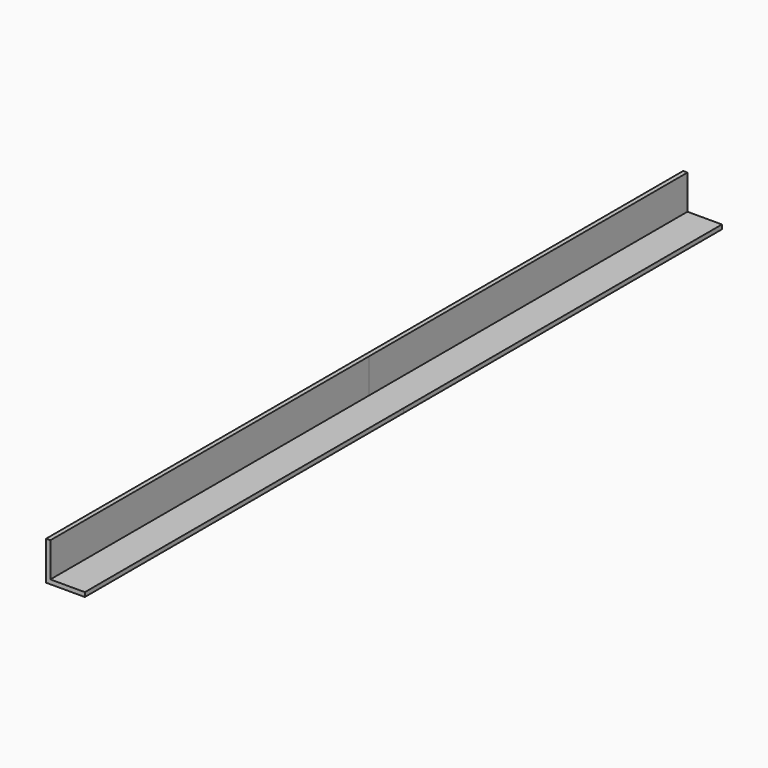
from build123d import *

# Parameters (mm, degrees)
F1_DEPTH = 586.74
F2_DEPTH = 586.74


with BuildPart() as f1:
    # F0 (on Front) → F1 (new body)
    with BuildSketch(Plane.XZ):
        Polygon((-15.55056, -26.781248), (-15.55056, 24.018752), (-21.90056, 24.018752), (-21.90056, -33.131248), (35.24944, -33.131248), (35.24944, -26.781248), align=None)
    extrude(amount=F1_DEPTH)

    # F1_face (on face) → F2 (join)
    with BuildSketch(Plane(origin=(-5.278502, 0, -16.509189), x_dir=(1, 0, 0), z_dir=(0, 1, 0))):
        Polygon((-10.272059, -40.527941), (-10.272059, 10.272059), (40.527941, 10.272059), (40.527941, 16.622059), (-16.622059, 16.622059), (-16.622059, -40.527941), align=None)
    extrude(amount=F2_DEPTH)


solid = f1.part
